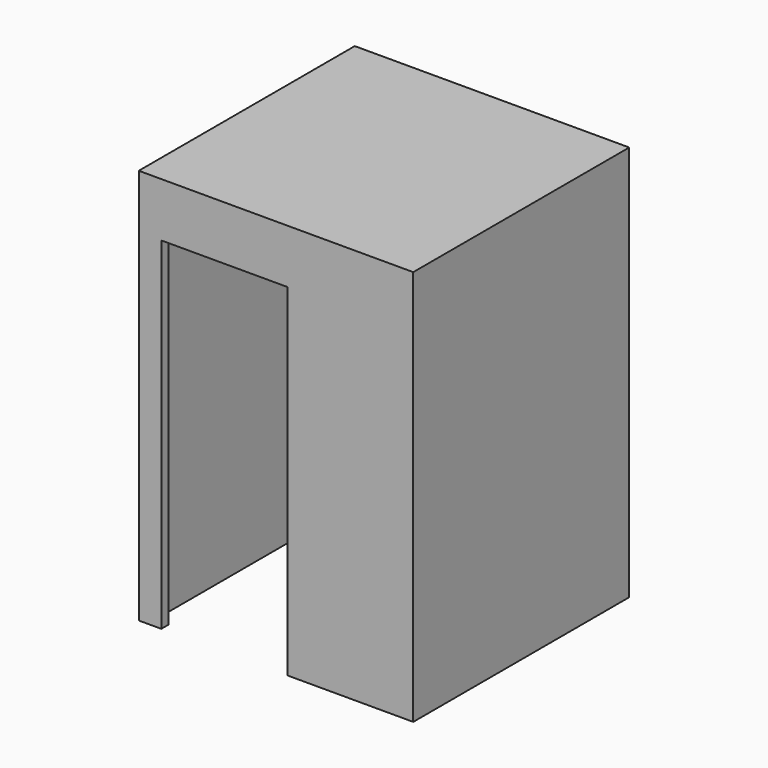
from build123d import *

# Parameters (mm, degrees)
F1_DEPTH = 1930.4
F2_W     = 1549.4
F2_H     = 1524
F3_DEPTH = 304.8
F4_W     = 1447.8
F4_H     = 1422.4
F5_DEPTH = 254


with BuildPart() as f1:
    # F0 (on Top) → F1 (new body)
    with BuildSketch(Plane.XY):
        Polygon((0, -1524), (0, 0), (-1549.4, 0), (-1549.4, -1524), (-1422.4, -1524), (-1422.4, -1473.2), (-1498.6, -1473.2), (-1498.6, -50.8), (-50.8, -50.8), (-50.8, -1473.2), (-711.2, -1473.2), (-711.2, -1524), align=None)
    extrude(amount=F1_DEPTH)

    # F2 (on face) → F3 (join)
    with BuildSketch(Plane.XY.offset(1930.4)):
        with Locations((-774.7, -762)):
            Rectangle(F2_W, F2_H)
    extrude(amount=F3_DEPTH)

    # F4 (on face) → F5 (cut)
    with BuildSketch(Plane(origin=(0, 0, 1930.4), x_dir=(1, 0, 0), z_dir=(0, 0, -1))):
        with Locations((-774.7, 762)):
            Rectangle(F4_W, F4_H)
    extrude(amount=-F5_DEPTH, mode=Mode.SUBTRACT)


solid = f1.part
